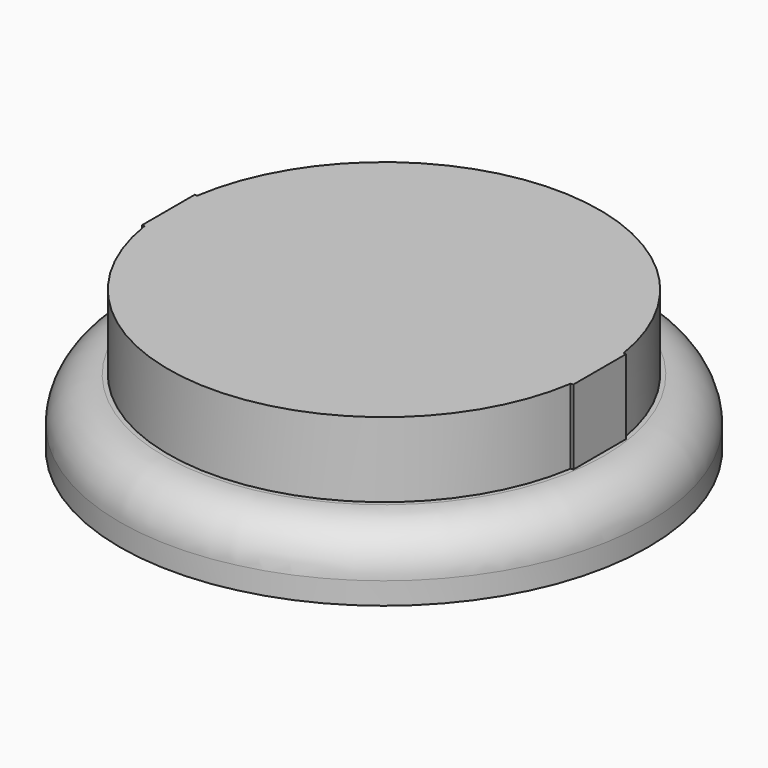
from build123d import *

# Parameters (mm, degrees)
SKETCH_R     = 2.45
PAD_DEPTH    = 1.6
SKETCH001_W  = 4.9
SKETCH001_H  = 0.75
PAD001_DEPTH = 1.6
SKETCH002_R  = 3
PAD002_DEPTH = 0.75
FILLET_R     = 0.5


with BuildPart() as part:
    # Sketch → Pad (new body)
    with BuildSketch(Plane.XY):
        Circle(SKETCH_R)
    extrude(amount=PAD_DEPTH)

    # Sketch001 → Pad001 (join)
    with BuildSketch(Plane.XY):
        Rectangle(SKETCH001_W, SKETCH001_H)
    extrude(amount=PAD001_DEPTH)

    # Sketch002 → Pad002 (join)
    with BuildSketch(Plane.XY):
        Circle(SKETCH002_R)
    extrude(amount=PAD002_DEPTH)

    # Fillet
    fillet_edges = [part.edges().sort_by_distance(p)[0] for p in [
        (-3, 0, 0.75),
    ]]
    fillet(fillet_edges, radius=FILLET_R)


solid = part.part
